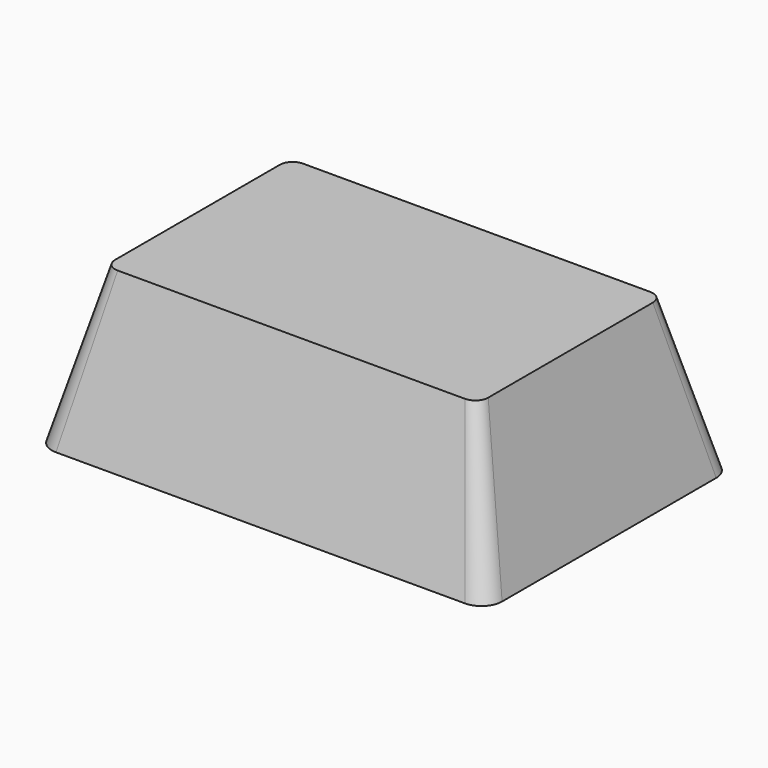
from build123d import *

# Parameters (mm, degrees)
F4_T = -0.5


with BuildPart() as f3:
    # F0 (on Top) → F3 section 0
    with BuildSketch(Plane.XY):
        with BuildLine():
            ThreePointArc((-87.5, -52), (-85.156854, -57.656854), (-79.5, -60))
            Line((-79.5, -60), (79.5, -60))
            ThreePointArc((79.5, -60), (85.156854, -57.656854), (87.5, -52))
            Line((87.5, -52), (87.5, 52))
            ThreePointArc((87.5, 52), (85.156854, 57.656854), (79.5, 60))
            Line((79.5, 60), (-79.5, 60))
            ThreePointArc((-79.5, 60), (-85.156854, 57.656854), (-87.5, 52))
            Line((-87.5, 52), (-87.5, -52))
        make_face()
    # F2 (on offset) → F3 section 1
    with BuildSketch(Plane.XY.offset(60)):
        with BuildLine():
            Line((67.5, 45), (-67.5, 45))
            ThreePointArc((-67.5, 45), (-71.035534, 43.535534), (-72.5, 40))
            Line((-72.5, 40), (-72.5, -40))
            ThreePointArc((-72.5, -40), (-71.035534, -43.535534), (-67.5, -45))
            Line((-67.5, -45), (67.5, -45))
            ThreePointArc((67.5, -45), (71.035534, -43.535534), (72.5, -40))
            Line((72.5, -40), (72.5, 40))
            ThreePointArc((72.5, 40), (71.035534, 43.535534), (67.5, 45))
        make_face()
    loft()

    # F4
    f4_openings = [f3.faces().sort_by_distance(p)[0] for p in [
        (0, 0, 0),
    ]]
    offset(amount=F4_T, openings=f4_openings)


solid = f3.part
